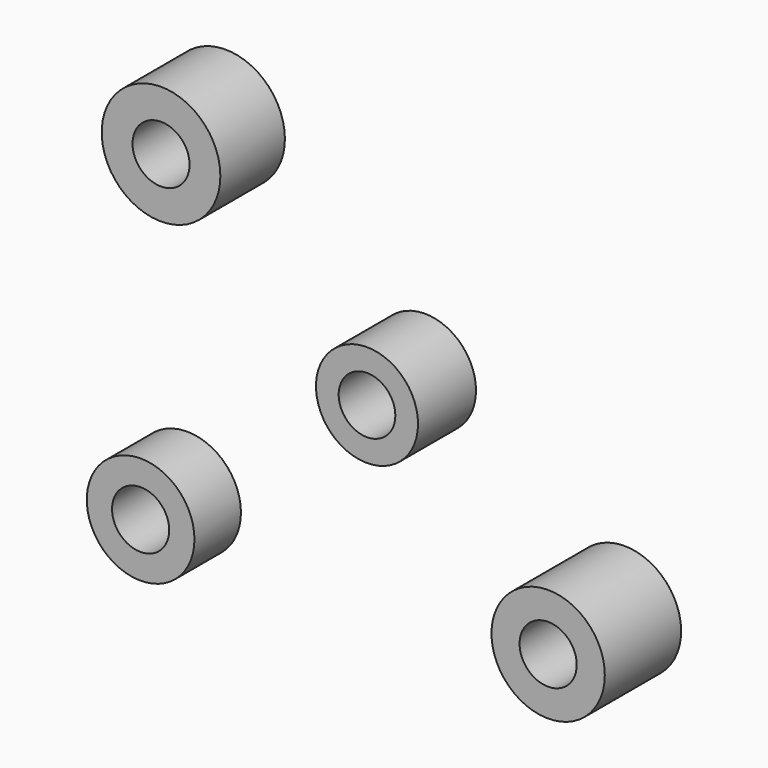
from build123d import *

# Parameters (mm, degrees)
F0_R     = 10
F0_R_2   = 5.55
F1_DEPTH = 14.2
F2_R     = 11.625
F2_R_2   = 5.59
F3_DEPTH = 15.81
F4_R     = 10.55
F4_R_2   = 5.6
F5_DEPTH = 11.39
F6_R     = 11.1
F6_R_2   = 5.6
F7_DEPTH = 18.7


with BuildPart() as f1:
    # F0 (on Front) → F1 (new body)
    with BuildSketch(Plane.XZ):
        Circle(F0_R)
        Circle(F0_R_2, mode=Mode.SUBTRACT)
    extrude(amount=F1_DEPTH)


with BuildPart() as f3:
    # F2 (on Front) → F3 (new body)
    with BuildSketch(Plane.XZ):
        with Locations((-39.073661, 31.236561)):
            Circle(F2_R)
        with Locations((-39.073661, 31.236561)):
            Circle(F2_R_2, mode=Mode.SUBTRACT)
    extrude(amount=F3_DEPTH)


with BuildPart() as f5:
    # F4 (on Front) → F5 (new body)
    with BuildSketch(Plane.XZ):
        with Locations((-46.612881, -36.051001)):
            Circle(F4_R)
        with Locations((-46.612881, -36.051001)):
            Circle(F4_R_2, mode=Mode.SUBTRACT)
    extrude(amount=F5_DEPTH)


with BuildPart() as f7:
    # F6 (on Front) → F7 (new body)
    with BuildSketch(Plane.XZ):
        with Locations((39.09554, -28.448422)):
            Circle(F6_R)
        with Locations((39.09554, -28.448422)):
            Circle(F6_R_2, mode=Mode.SUBTRACT)
    extrude(amount=F7_DEPTH)


solid = Compound([f1.part, f3.part, f5.part, f7.part])
